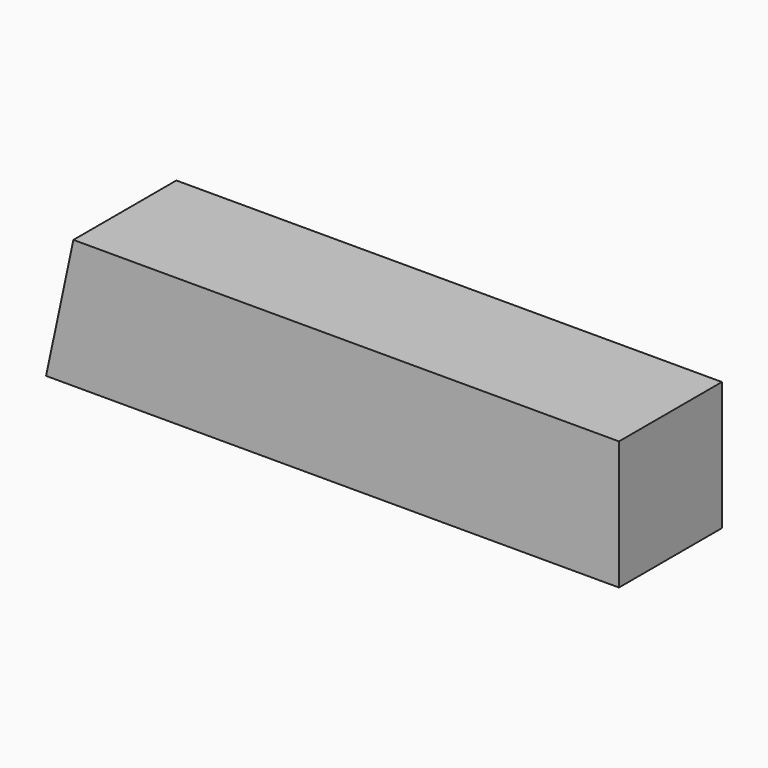
from build123d import *

# Parameters (mm, degrees)
F1_DEPTH = 12.7
F2_R     = 3.175
F3_DEPTH = 110.6302371448
F5_R     = 7.9375
F5_R_2   = 3.175
F6_DEPTH = 104.2802371448


with BuildPart() as f1:
    # F0 (on Front) → F1 (new body, symmetric)
    with BuildSketch(Plane.XZ):
        Polygon((113.1007601121, 25.4), (5.3989366664, 25.4), (0, 0), (113.1007601121, 0), align=None)
    extrude(amount=F1_DEPTH, both=True)

    # F2 (on face) → F3 (cut, through all)
    with BuildSketch(Plane(origin=(0, 0, 0), x_dir=(0, -1, 0), z_dir=(-0.9781476007, 0, 0.2079116908))):
        with Locations((0, 12.9837255548)):
            Circle(F2_R)
    extrude(amount=-F3_DEPTH, mode=Mode.SUBTRACT)

    # F5 (on offset) → F6 (cut, through all)
    with BuildSketch(Plane(origin=(6.2112372647, 0, -1.3202392367), x_dir=(0, -1, 0), z_dir=(-0.9781476007, 0, 0.2079116908))):
        with Locations((0, 12.9837255548)):
            Circle(F5_R)
        with Locations((0, 12.9837255548)):
            Circle(F5_R_2, mode=Mode.SUBTRACT)
    extrude(amount=-F6_DEPTH, mode=Mode.SUBTRACT)


solid = f1.part
